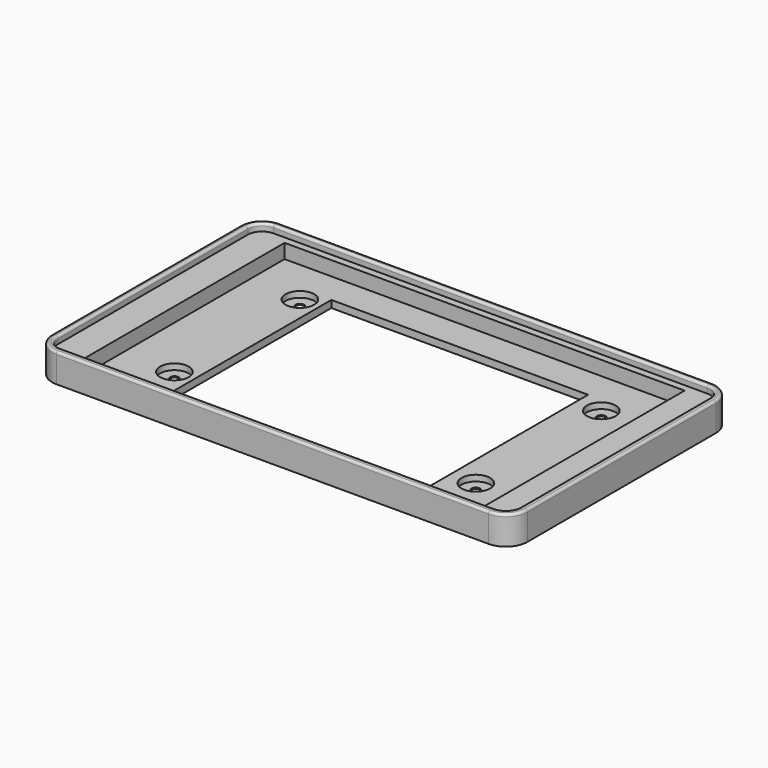
from build123d import *

# Parameters (mm, degrees)
F1_DEPTH  = 12
F2_R      = 1.75
F3_DEPTH  = 25
F4_R      = 1.75
F5_DEPTH  = 3
F6_R      = 1
F7_W      = 167.5
F7_H      = 105.3
F8_DEPTH  = 6
F9_W      = 107.5
F9_H      = 92.3
F10_DEPTH = 6
F11_R     = 6
F12_DEPTH = 2.5


with BuildPart() as f1:
    # F0 (on Top) → F1 (new body)
    with BuildSketch(Plane.XY):
        with BuildLine():
            Line((90.75, 58.35), (-90.25, 58.35))
            ThreePointArc((-90.25, 58.35), (-96.613961, 55.713961), (-99.25, 49.35))
            Line((-99.25, 49.35), (-99.25, -49.35))
            ThreePointArc((-99.25, -49.35), (-96.613961, -55.713961), (-90.25, -58.35))
            Line((-90.25, -58.35), (90.75, -58.35))
            ThreePointArc((90.75, -58.35), (97.113961, -55.713961), (99.75, -49.35))
            Line((99.75, -49.35), (99.75, 49.35))
            ThreePointArc((99.75, 49.35), (97.113961, 55.713961), (90.75, 58.35))
        make_face()
    extrude(amount=F1_DEPTH)

    # F2 (on face) → F3 (cut)
    with BuildSketch(Plane.XY.offset(12)):
        with Locations((-61.99, 33.77)):
            Circle(F2_R)
        with Locations((64.21, 33.77)):
            Circle(F2_R)
        with Locations((64.21, -31.88)):
            Circle(F2_R)
        with Locations((-61.99, -31.88)):
            Circle(F2_R)
    extrude(amount=-F3_DEPTH, mode=Mode.SUBTRACT)

    # F4 (on face) → F5 (cut)
    with BuildSketch(Plane.XY.offset(12)):
        with BuildLine():
            Line((90.75, 55.95), (-90.75, 55.95))
            ThreePointArc((-90.75, 55.95), (-94.992641, 54.192641), (-96.75, 49.95))
            Line((-96.75, 49.95), (-96.75, -49.35))
            ThreePointArc((-96.75, -49.35), (-94.992641, -53.592641), (-90.75, -55.35))
            Line((-90.75, -55.35), (90.75, -55.35))
            ThreePointArc((90.75, -55.35), (94.992641, -53.592641), (96.75, -49.35))
            Line((96.75, -49.35), (96.75, 49.95))
            ThreePointArc((96.75, 49.95), (94.992641, 54.192641), (90.75, 55.95))
        make_face()
        with Locations((-61.99, -31.88)):
            Circle(F4_R, mode=Mode.SUBTRACT)
        with Locations((64.21, -31.88)):
            Circle(F4_R, mode=Mode.SUBTRACT)
        with Locations((-61.99, 33.77)):
            Circle(F4_R, mode=Mode.SUBTRACT)
        with Locations((64.21, 33.77)):
            Circle(F4_R, mode=Mode.SUBTRACT)
    extrude(amount=-F5_DEPTH, mode=Mode.SUBTRACT)

    # F6
    f6_edges = [f1.edges().sort_by_distance(p)[0] for p in [
        (-99.25, 0, 12),
        (-96.75, 0.3, 12),
        (-96.613961, 55.713961, 12),
        (0, 55.95, 12),
        (0.25, 58.35, 12),
        (94.992641, 54.192641, 12),
        (99.75, 0, 12),
        (96.75, 0.3, 12),
        (97.113961, -55.713961, 12),
        (94.992641, -53.592641, 12),
        (0.25, -58.35, 12),
        (0, -55.35, 12),
        (-94.992641, -53.592641, 12),
        (-96.613961, -55.713961, 12),
        (97.113961, 55.713961, 12),
        (-94.992641, 54.192641, 12),
    ]]
    fillet(f6_edges, radius=F6_R)

    # F7 (on face) → F8 (cut)
    with BuildSketch(Plane.XY.offset(9)):
        with Locations((0, 0.3)):
            Rectangle(F7_W, F7_H)
    extrude(amount=-F8_DEPTH, mode=Mode.SUBTRACT)

    # F9 (on face) → F10 (cut)
    with BuildSketch(Plane.XY.offset(3)):
        with Locations((0, -6.2)):
            Rectangle(F9_W, F9_H)
    extrude(amount=-F10_DEPTH, mode=Mode.SUBTRACT)

    # F11 (on face) → F12 (cut)
    with BuildSketch(Plane.XY.offset(3)):
        with Locations((-61.99, 33.77)):
            Circle(F11_R)
        with Locations((-61.99, -31.88)):
            Circle(F11_R)
        with Locations((64.21, 33.77)):
            Circle(F11_R)
        with Locations((64.21, -31.88)):
            Circle(F11_R)
    extrude(amount=-F12_DEPTH, mode=Mode.SUBTRACT)


solid = f1.part
